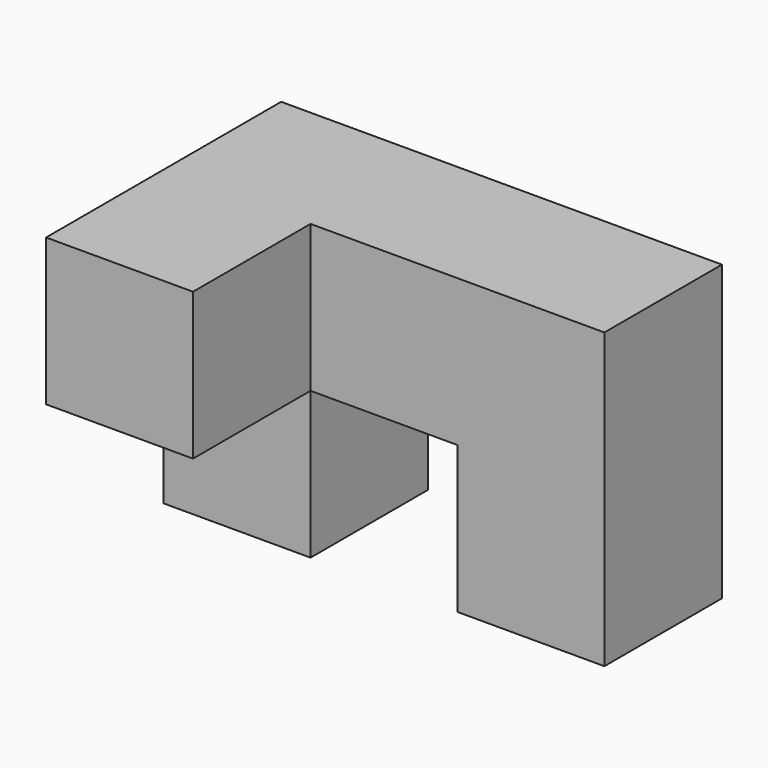
from build123d import *

# Parameters (mm, degrees)
F0_W     = 19.05
F0_H     = 19.05
F1_DEPTH = 38.1
F2_DEPTH = 19.05


with BuildPart() as f1:
    # F0 (on Front) → F1 (new body)
    with BuildSketch(Plane.XZ):
        with Locations((-9.525, 9.525)):
            Rectangle(F0_W, F0_H)
    extrude(amount=F1_DEPTH)

    # F0 (on Front) → F2 (join)
    with BuildSketch(Plane.XZ):
        with Locations((-9.525, -9.525)):
            Rectangle(F0_W, F0_H)
        with Locations((-9.525, 9.525)):
            Rectangle(F0_W, F0_H)
        with Locations((9.525, 9.525)):
            Rectangle(F0_W, F0_H)
        with Locations((28.575, 9.525)):
            Rectangle(F0_W, F0_H)
        with Locations((28.575, -9.525)):
            Rectangle(F0_W, F0_H)
    extrude(amount=F2_DEPTH)


solid = f1.part
